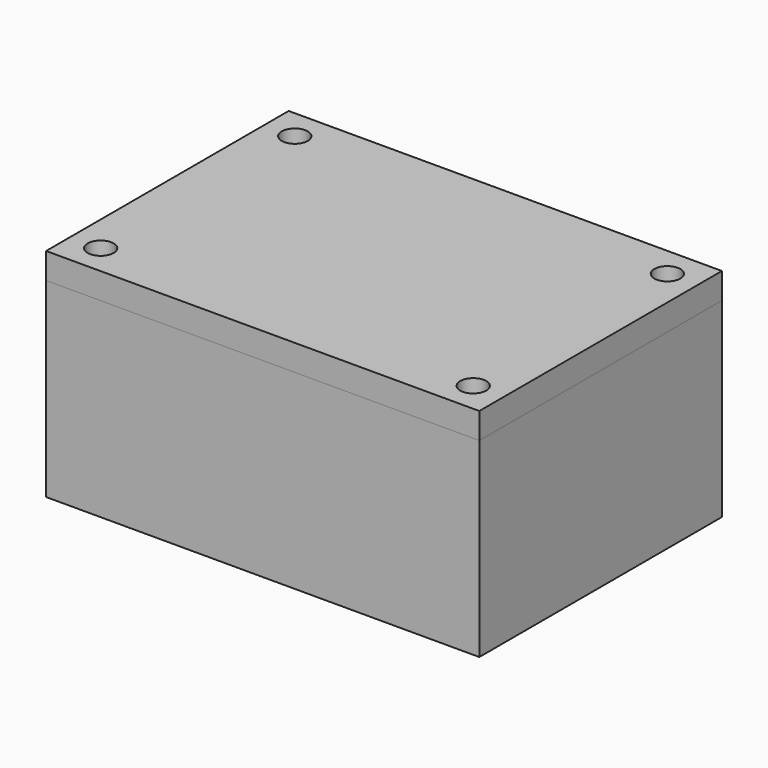
from build123d import *

# Parameters (mm, degrees)
F0_W      = 50
F0_H      = 35
F1_DEPTH  = 25
F2_T      = -3
F3_W      = 7
F3_H      = 7
F4_DEPTH  = 25
F6_D      = 4
F6_DEPTH  = 8
F6_TIP    = 1.2017212381
F8_D      = 16
F8_DEPTH  = 20
F8_TIP    = 4.8068849522
F9_W      = 5
F9_H      = 6
F10_DEPTH = 25
F12_D     = 4
F12_DEPTH = 6
F12_TIP   = 1.2017212381
F13_D     = 4
F13_DEPTH = 6
F13_TIP   = 1.2017212381
F14_W     = 50
F14_H     = 35
F14_R     = 1.5
F15_DEPTH = 3


with BuildPart() as f1:
    # F0 (on Top) → F1 (new body)
    with BuildSketch(Plane.XY):
        with Locations((25, 17.5)):
            Rectangle(F0_W, F0_H)
    extrude(amount=F1_DEPTH)

    # F2
    f2_openings = [f1.faces().sort_by_distance(p)[0] for p in [
        (25, 17.5, 25),
    ]]
    offset(amount=F2_T, openings=f2_openings)

    # F3 (on face) → F4 (join)
    with BuildSketch(Plane.XY.offset(25)):
        with Locations((3.5, 3.5)):
            Rectangle(F3_W, F3_H)
        with Locations((3.5, 31.5)):
            Rectangle(F3_W, F3_H)
        with Locations((46.5, 31.5)):
            Rectangle(F3_W, F3_H)
        with Locations((46.5, 3.5)):
            Rectangle(F3_W, F3_H)
    extrude(amount=-F4_DEPTH)

    # F6
    with Locations(Plane.XY.offset(25)):
        with Locations((3.5, 3.5), (46.5, 3.5), (46.5, 31.5), (3.5, 31.5)):
            Hole(F6_D / 2, depth=F6_DEPTH)
            with Locations((0, 0, -(F6_DEPTH + F6_TIP / 2))):  # 118° drill point
                Cone(0, F6_D / 2, F6_TIP, mode=Mode.SUBTRACT)

    # F8
    with Locations(Plane(origin=(0, 0, 0), x_dir=(0, -1, 0), z_dir=(-1, 0, 0))):
        with Locations((-17.5, 12.5)):
            Hole(F8_D / 2, depth=F8_DEPTH)
            with Locations((0, 0, -(F8_DEPTH + F8_TIP / 2))):  # 118° drill point
                Cone(0, F8_D / 2, F8_TIP, mode=Mode.SUBTRACT)

    # F9 (on face) → F10 (cut)
    with BuildSketch(Plane.YZ.offset(50)):
        with Locations((17.5, 25)):
            Rectangle(F9_W, F9_H)
    extrude(amount=-F10_DEPTH, mode=Mode.SUBTRACT)

    # F12
    with Locations(Plane(origin=(0, 35, 0), x_dir=(-1, 0, 0), z_dir=(0, 1, 0))):
        with Locations((-37.5, 12.5)):
            Hole(F12_D / 2, depth=F12_DEPTH)
            with Locations((0, 0, -(F12_DEPTH + F12_TIP / 2))):  # 118° drill point
                Cone(0, F12_D / 2, F12_TIP, mode=Mode.SUBTRACT)

    # F13
    with Locations(Plane(origin=(0, 35, 0), x_dir=(-1, 0, 0), z_dir=(0, 1, 0))):
        with Locations((-12.5, 12.5)):
            Hole(F13_D / 2, depth=F13_DEPTH)
            with Locations((0, 0, -(F13_DEPTH + F13_TIP / 2))):  # 118° drill point
                Cone(0, F13_D / 2, F13_TIP, mode=Mode.SUBTRACT)


with BuildPart() as f15:
    # F14 (on face) → F15 (new body)
    with BuildSketch(Plane.XY.offset(25)):
        with Locations((25, 17.5)):
            Rectangle(F14_W, F14_H)
        with Locations((3.5, 3.5)):
            Circle(F14_R, mode=Mode.SUBTRACT)
        with Locations((46.5, 3.5)):
            Circle(F14_R, mode=Mode.SUBTRACT)
        with Locations((3.5, 31.5)):
            Circle(F14_R, mode=Mode.SUBTRACT)
        with Locations((46.5, 31.5)):
            Circle(F14_R, mode=Mode.SUBTRACT)
    extrude(amount=-F15_DEPTH)


solid = Compound([f1.part, f15.part])
